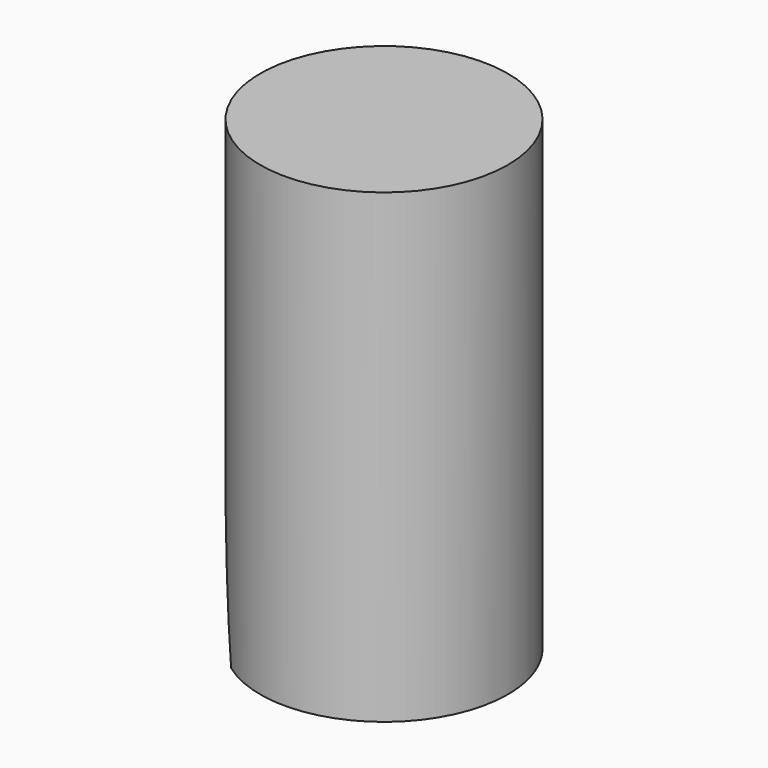
from build123d import *

# Parameters (mm, degrees)
F0_R     = 10.795
F1_DEPTH = 2.54
F2_R     = 10.795
F2_R_2   = 8.255
F3_DEPTH = 38.1
F7_DEPTH = 45.8433286473
F7_TAPER = 8.6770123


with BuildPart() as f1:
    # F0 (on Top) → F1 (new body)
    with BuildSketch(Plane.XY):
        Circle(F0_R)
    extrude(amount=F1_DEPTH)

    # F2 (on face) → F3 (join)
    with BuildSketch(Plane(origin=(0, 0, 0), x_dir=(1, 0, 0), z_dir=(0, 0, -1))):
        Circle(F2_R)
        Circle(F2_R_2, mode=Mode.SUBTRACT)
    extrude(amount=F3_DEPTH)

    # F6 (on line) → F7 (cut, through all)
    with BuildSketch(Plane(origin=(20.6051799371, 0, -31.7291946582), x_dir=(0.8386705679, 0, 0.544639035), z_dir=(-0.544639035, 0, 0.8386705679))):
        with BuildLine():
            Line((-34.5572984531, -10.16), (-21.8572984531, -10.16))
            ThreePointArc((-21.8572984531, -10.16), (-11.6972984531, 0), (-21.8572984531, 10.16))
            Line((-21.8572984531, 10.16), (-34.5572984531, 10.16))
            Line((-34.5572984531, 10.16), (-34.5572984531, -10.16))
        make_face()
    extrude(amount=F7_DEPTH, taper=F7_TAPER, mode=Mode.SUBTRACT)


solid = f1.part
